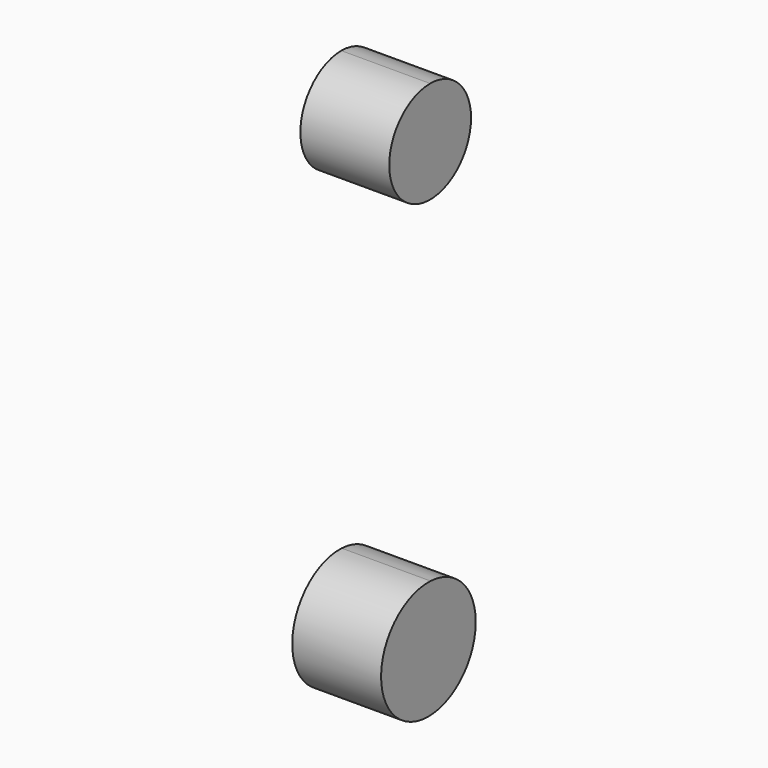
from build123d import *

# Parameters (mm, degrees)
F2_DEPTH = 25.4
F3_DEPTH = 25.4


with BuildPart() as f2:
    # F1 (on Right) → F2 (new body)
    with BuildSketch(Plane.YZ):
        with BuildLine():
            ThreePointArc((-15.411808, -41.136587), (-28.386, -69.711519), (0.739913, -58.026589))
            ThreePointArc((0.739913, -58.026589), (-3.947925, -46.34166), (-15.411808, -41.136587))
        make_face()
    extrude(amount=F2_DEPTH)


with BuildPart() as f3:
    # F0 (on Right) → F3 (new body)
    with BuildSketch(Plane.YZ):
        with BuildLine():
            ThreePointArc((-15.54991, 84.113595), (-25.881513, 59.1709), (-0.938818, 69.502503))
            ThreePointArc((-0.938818, 69.502503), (-5.218308, 79.834105), (-15.54991, 84.113595))
        make_face()
    extrude(amount=F3_DEPTH)


solid = Compound([f2.part, f3.part])
